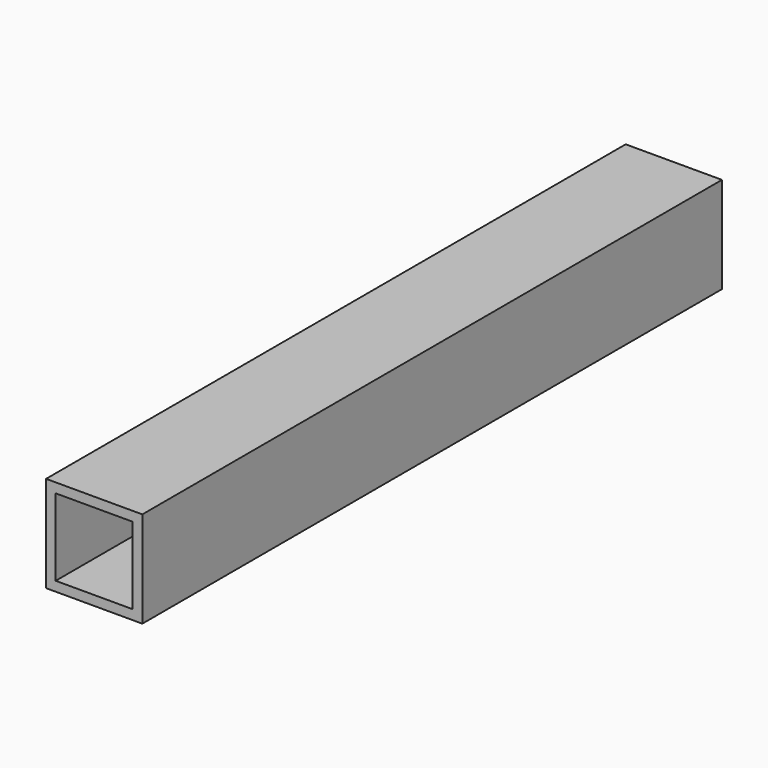
from build123d import *

# Parameters (mm, degrees)
F0_W     = 31.75
F0_H     = 31.75
F1_DEPTH = 119.500002
F2_T     = -3.175


with BuildPart() as f1:
    # F0 (on Front) → F1 (new body, symmetric)
    with BuildSketch(Plane.XZ):
        Rectangle(F0_W, F0_H)
    extrude(amount=F1_DEPTH, both=True)

    # F2
    f2_openings = [f1.faces().sort_by_distance(p)[0] for p in [
        (0, -119.500002, 0),
    ]]
    offset(amount=F2_T, openings=f2_openings)


solid = f1.part
